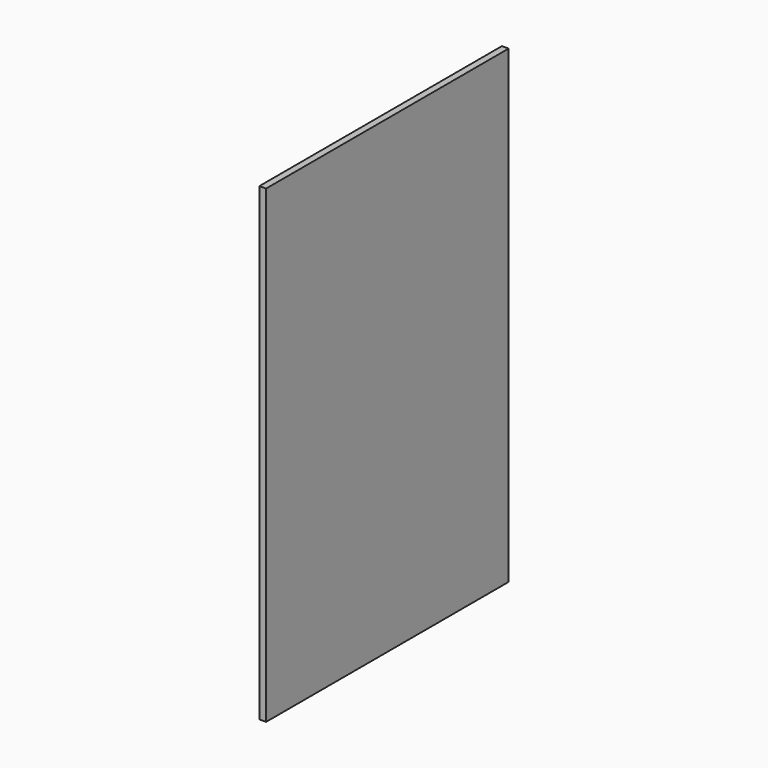
from build123d import *

# Parameters (mm, degrees)
PAD_DEPTH = 10


with BuildPart() as part:
    # Sketch → Pad (new body)
    with BuildSketch(Plane.YZ):
        Polygon((0, 0), (0, 700), (452, 700), (452, 0), (226, 0), align=None)
    extrude(amount=-PAD_DEPTH)


solid = part.part
